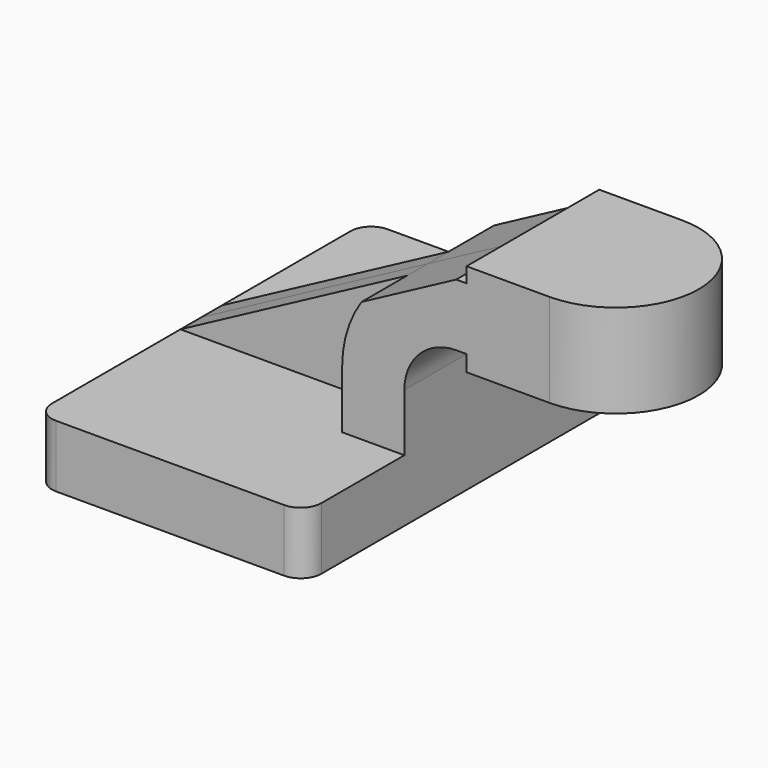
from build123d import *

# Parameters (mm, degrees)
F1_DEPTH = 63.5
F2_DEPTH = 25.4
F3_DEPTH = 7.9375
F0_W     = 25.4
F0_H     = 28.575
F5_R     = 6.35


with BuildPart() as f1:
    # F0 (on Front) → F1 (new body, symmetric)
    with BuildSketch(Plane.XZ):
        Polygon((22.225, 9.525), (-41.275, 9.525), (-41.275, -9.525), (41.275, -9.525), (41.275, 9.525), align=None)
    extrude(amount=F1_DEPTH, both=True)

    # F0 (on Front) → F2 (join, symmetric)
    with BuildSketch(Plane.XZ):
        with BuildLine():
            Line((22.225, 27.1272), (22.225, 9.525))
            Line((22.225, 9.525), (41.275, 9.525))
            Line((41.275, 9.525), (41.275, 27.1272))
            ThreePointArc((41.275, 27.1272), (45.92468, 38.35252), (57.15, 43.0022))
            Line((57.15, 43.0022), (60.325, 43.0022))
            Line((60.325, 43.0022), (60.325, 62.0522))
            Line((60.325, 62.0522), (57.15, 62.0522))
            add(Edge.make_bspline(
                [(28.136121, 46.568148), (37.807414, 51.729499), (47.478707, 56.890849), (57.15, 62.0522)],
                knots=[78.677179, 78.677179, 78.677179, 78.677179, 111.564275, 111.564275, 111.564275, 111.564275], degree=3))
            ThreePointArc((28.136121, 46.568148), (23.735442, 37.28707), (22.225, 27.1272))
        make_face()
        Polygon((60.325, 66.675), (60.325, 62.0522), (60.325, 43.0022), (60.325, 38.1), (85.725, 38.1), (85.725, 66.675), align=None)
    extrude(amount=F2_DEPTH, both=True)

    # F0 (on Front) → F3 (join, symmetric)
    with BuildSketch(Plane.XZ):
        with BuildLine():
            add(Edge.make_bspline(
                [(-41.275, 9.525), (-18.13796, 21.872716), (4.999081, 34.220432), (28.136121, 46.568148)],
                knots=[0, 0, 0, 0, 78.677179, 78.677179, 78.677179, 78.677179], degree=3))
            Line((-41.275, 9.525), (22.225, 9.525))
            Line((22.225, 9.525), (22.225, 27.1272))
            ThreePointArc((22.225, 27.1272), (23.735442, 37.28707), (28.136121, 46.568148))
        make_face()
    extrude(amount=F3_DEPTH, both=True)

    # F0 (on Front) → F4 (revolve)
    with BuildSketch(Plane.XZ):
        with Locations((98.425, 52.3875)):
            Rectangle(F0_W, F0_H)
    revolve(axis=Axis((85.725, 0, 52.3875), (0, 0, 1)))

    # F5
    f5_edges = [f1.edges().sort_by_distance(p)[0] for p in [
        (41.275, -63.5, 0),
        (-41.275, -63.5, 0),
        (-41.275, 63.5, 0),
        (41.275, 63.5, 0),
    ]]
    fillet(f5_edges, radius=F5_R)


solid = f1.part
